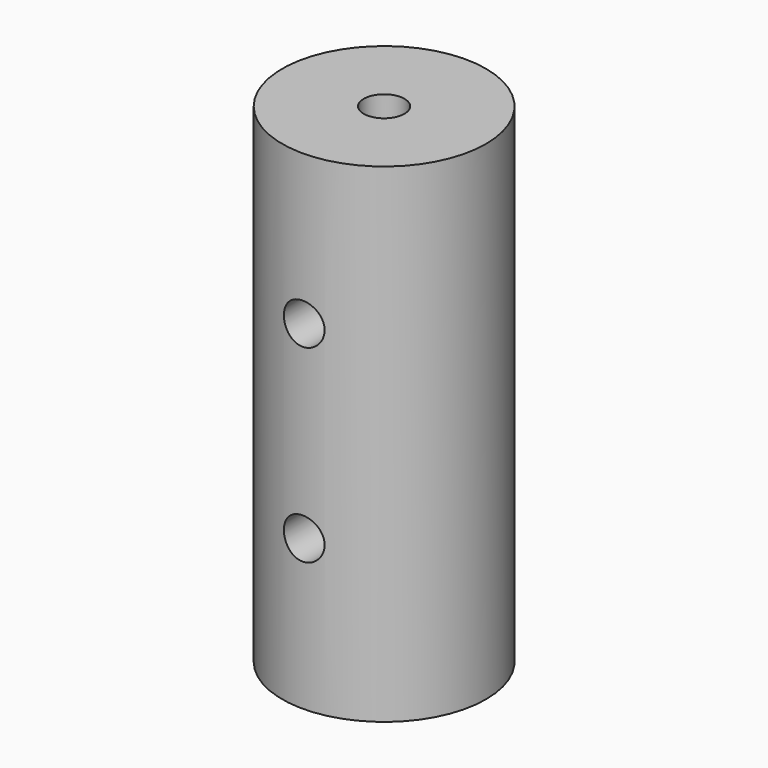
from build123d import *

# Parameters (mm, degrees)
F0_R     = 15.875
F1_DEPTH = 76.2
F2_R     = 3.175
F3_DEPTH = 63.5
F4_R     = 3.175
F5_DEPTH = 25.4


with BuildPart() as f1:
    # F0 (on Top) → F1 (new body)
    with BuildSketch(Plane.XY):
        Circle(F0_R)
    extrude(amount=F1_DEPTH)

    # F2 (on face) → F3 (cut)
    with BuildSketch(Plane.XY.offset(76.2)):
        Circle(F2_R)
    extrude(amount=-F3_DEPTH, mode=Mode.SUBTRACT)

    # F4 (on Front) → F5 (cut, symmetric)
    with BuildSketch(Plane.XZ):
        with Locations((0, 23.36292)):
            Circle(F4_R)
        with Locations((0, 52.832)):
            Circle(F4_R)
    extrude(amount=F5_DEPTH, both=True, mode=Mode.SUBTRACT)


solid = f1.part
